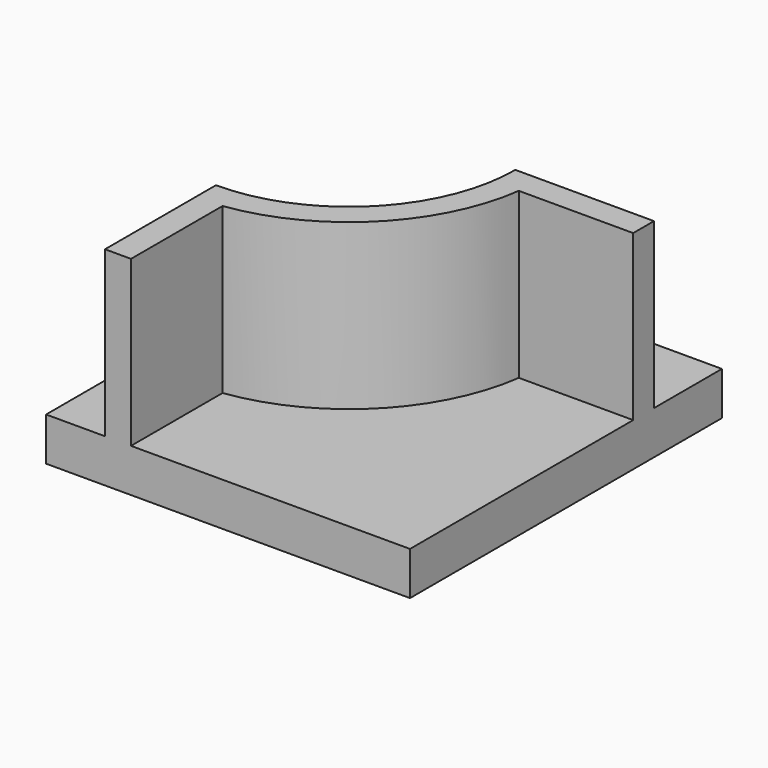
from build123d import *

# Parameters (mm, degrees)
F0_W     = 210
F0_H     = 225
F1_DEPTH = 25
F3_DEPTH = 95


with BuildPart() as f1:
    # F0 (on Top) → F1 (new body)
    with BuildSketch(Plane.XY):
        Rectangle(F0_W, F0_H)
    extrude(amount=F1_DEPTH)

    # F2 (on face) → F3 (join)
    with BuildSketch(Plane.XY.offset(25)):
        with BuildLine():
            Line((-71, -32.5), (-71, -112.5))
            Line((-71, -112.5), (-56, -112.5))
            Line((-56, -112.5), (-56, -46.481817))
            ThreePointArc((-56, -46.481817), (7.488853, -14.988853), (38.981817, 48.5))
            Line((38.981817, 48.5), (105, 48.5))
            Line((105, 48.5), (105, 63.5))
            Line((105, 63.5), (25, 63.5))
            ThreePointArc((25, 63.5), (-3.117749, -4.382251), (-71, -32.5))
        make_face()
    extrude(amount=F3_DEPTH)


solid = f1.part
